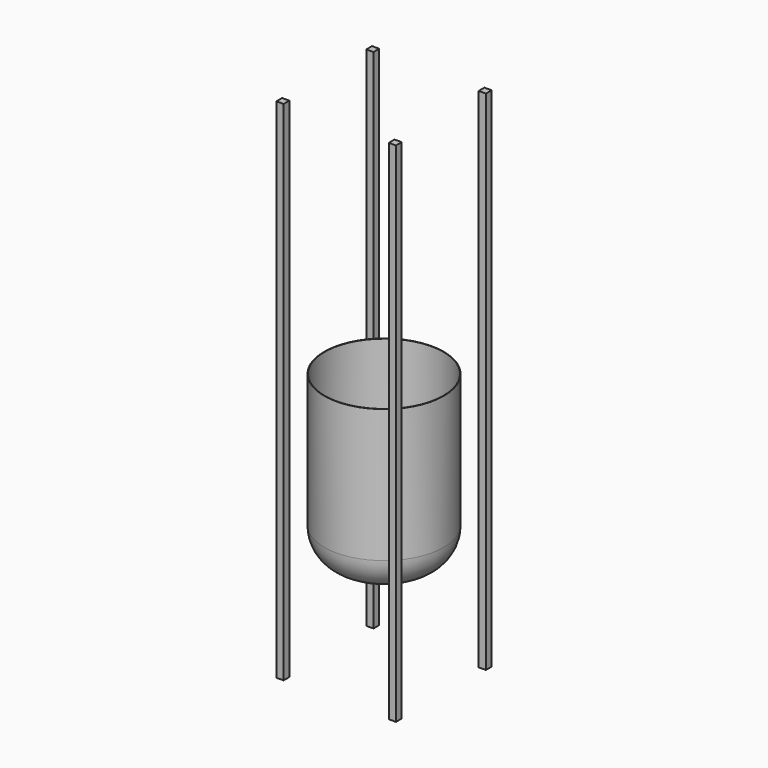
from build123d import *

# Parameters (mm, degrees)
F0_R     = 250
F1_DEPTH = 700
F2_R     = 142.43860018
F3_T     = -1.5
F4_W     = 30
F4_H     = 30
F5_DEPTH = 1722
F6_DEPTH = 400


with BuildPart() as f1:
    # F0 (on Top) → F1 (new body)
    with BuildSketch(Plane.XY):
        Circle(F0_R)
    extrude(amount=F1_DEPTH)

    # F2
    f2_edges = [f1.edges().sort_by_distance(p)[0] for p in [
        (-250, 0, 0),
    ]]
    fillet(f2_edges, radius=F2_R)

    # F3
    f3_openings = [f1.faces().sort_by_distance(p)[0] for p in [
        (0, 0, 700),
    ]]
    offset(amount=F3_T, openings=f3_openings)


with BuildPart() as f5:
    # F4 (on face) → F5 (new body)
    with BuildSketch(Plane.XY.offset(1.5)):
        with Locations((-235, -235)):
            Rectangle(F4_W, F4_H)
    extrude(amount=F5_DEPTH)

    # F6 (add): a face of the model
    f6_faces = [f5.faces().sort_by_distance(p)[0] for p in [
        (-235, -235, 1.5),
    ]]
    extrude(f6_faces, amount=F6_DEPTH)


with BuildPart() as f5b:
    # F4 (on face) → F5, piece 2 (new body)
    with BuildSketch(Plane.XY.offset(1.5)):
        with Locations((235, -235)):
            Rectangle(F4_W, F4_H)
    extrude(amount=F5_DEPTH)

    # F6#2 (add): a face of the model
    f6_2_faces = [f5b.faces().sort_by_distance(p)[0] for p in [
        (235, -235, 1.5),
    ]]
    extrude(f6_2_faces, amount=F6_DEPTH)


with BuildPart() as f5c:
    # F4 (on face) → F5, piece 3 (new body)
    with BuildSketch(Plane.XY.offset(1.5)):
        with Locations((-235, 235)):
            Rectangle(F4_W, F4_H)
    extrude(amount=F5_DEPTH)

    # F6#4 (add): a face of the model
    f6_4_faces = [f5c.faces().sort_by_distance(p)[0] for p in [
        (-235, 235, 1.5),
    ]]
    extrude(f6_4_faces, amount=F6_DEPTH)


with BuildPart() as f5d:
    # F4 (on face) → F5, piece 4 (new body)
    with BuildSketch(Plane.XY.offset(1.5)):
        with Locations((235, 235)):
            Rectangle(F4_W, F4_H)
    extrude(amount=F5_DEPTH)

    # F6#3 (add): a face of the model
    f6_3_faces = [f5d.faces().sort_by_distance(p)[0] for p in [
        (235, 235, 1.5),
    ]]
    extrude(f6_3_faces, amount=F6_DEPTH)


solid = Compound([f1.part, f5.part, f5b.part, f5c.part, f5d.part])
